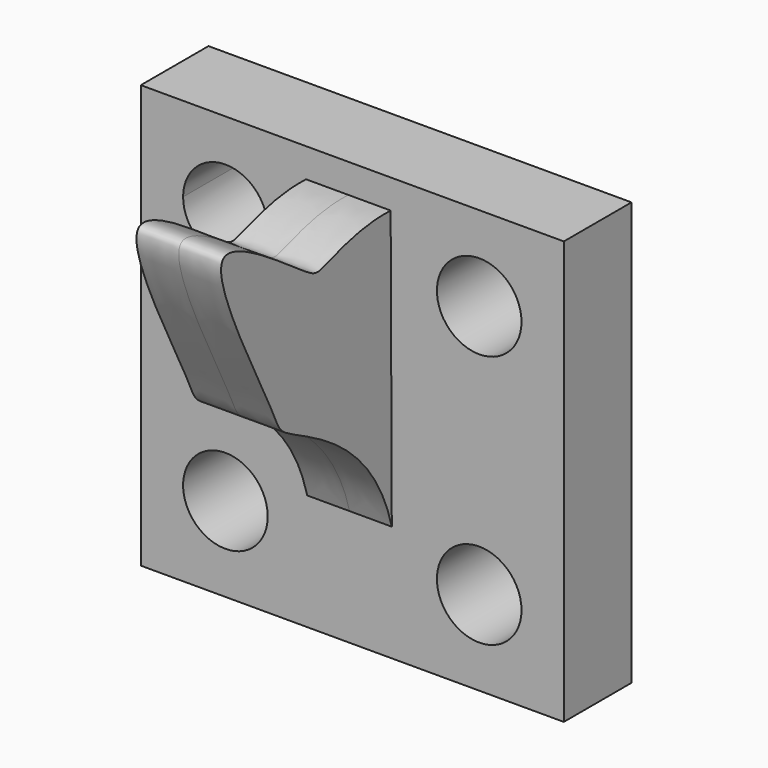
from build123d import *

# Parameters (mm, degrees)
F0_R          = 5
F1_DEPTH      = 10
F2_R          = 3.1384776311
F3_DEPTH      = 10
F5_DEPTH      = 5
F5_DEPTH_BACK = 5


with BuildPart() as f1:
    # F0 (on Front) → F1 (new body)
    with BuildSketch(Plane.XZ):
        with BuildLine():
            Line((25, -25), (25, 25))
            Line((25, 25), (-15, 25))
            Line((-15, 25), (-15, 20))
            ThreePointArc((-15, 20), (-11.4644660941, 18.5355339059), (-10, 15))
            ThreePointArc((-10, 15), (-15, 10), (-20, 15))
            Line((-20, 15), (-25, 15))
            Line((-25, 15), (-25, -25))
            Line((-25, -25), (25, -25))
        make_face()
        with Locations((-15, -15)):
            Circle(F0_R, mode=Mode.SUBTRACT)
        with Locations((15, -15)):
            Circle(F0_R, mode=Mode.SUBTRACT)
        with Locations((15, 15)):
            Circle(F0_R, mode=Mode.SUBTRACT)
        with BuildLine():
            Line((-15, 20), (-15, 25))
            Line((-15, 25), (-25, 25))
            Line((-25, 25), (-25, 15))
            Line((-25, 15), (-20, 15))
            ThreePointArc((-20, 15), (-18.5355339059, 18.5355339059), (-15, 20))
        make_face()
    extrude(amount=F1_DEPTH)

    # F2
    f2_edges = [f1.edges().sort_by_distance(p)[0] for p in [
        (-25, -5, -25),
        (25, -5, -25),
        (25, -5, 25),
        (-25, -5, 25),
    ]]
    fillet(f2_edges, radius=F2_R)

    # F0 (on Front) → F3 (join)
    with BuildSketch(Plane.XZ):
        with BuildLine():
            Line((25, -25), (25, 25))
            Line((25, 25), (-15, 25))
            Line((-15, 25), (-15, 20))
            ThreePointArc((-15, 20), (-11.4644660941, 18.5355339059), (-10, 15))
            ThreePointArc((-10, 15), (-15, 10), (-20, 15))
            Line((-20, 15), (-25, 15))
            Line((-25, 15), (-25, -25))
            Line((-25, -25), (25, -25))
        make_face()
        with Locations((-15, -15)):
            Circle(F0_R, mode=Mode.SUBTRACT)
        with Locations((15, -15)):
            Circle(F0_R, mode=Mode.SUBTRACT)
        with Locations((15, 15)):
            Circle(F0_R, mode=Mode.SUBTRACT)
        with BuildLine():
            Line((-15, 20), (-15, 25))
            Line((-15, 25), (-25, 25))
            Line((-25, 25), (-25, 15))
            Line((-25, 15), (-20, 15))
            ThreePointArc((-20, 15), (-18.5355339059, 18.5355339059), (-15, 20))
        make_face()
    extrude(amount=F3_DEPTH)


with BuildPart() as f5:
    # F4 (on Right) → F5 (new body, two sides)
    with BuildSketch(Plane.YZ) as f5_sk:
        with BuildLine():
            add(Edge.make_bspline(
                [(-10.4162946145, -11.0212665027), (-13.2618909053, 0), (-27.131232152, 4.5833458723), (-27.2662219762, 7.4556073822), (-42.8953141264, 35.3733420403), (-22.8336770531, 20.1520311338), (-20.843864609, 19.613302644), (-15.6311493452, 22.137324768), (-10.5841569602, 21.94513008)],
                knots=[0, 0, 0, 0, 0.2397827993, 0.3419140727, 0.5683362086, 0.7554060995, 0.8365827011, 1, 1, 1, 1], degree=3))
            Line((-10.4162946145, -11.0212665027), (-10.5841569602, 21.94513008))
        make_face()
    extrude(amount=F5_DEPTH)
    extrude(f5_sk.sketch, amount=-F5_DEPTH_BACK)


solid = Compound([f1.part, f5.part])
